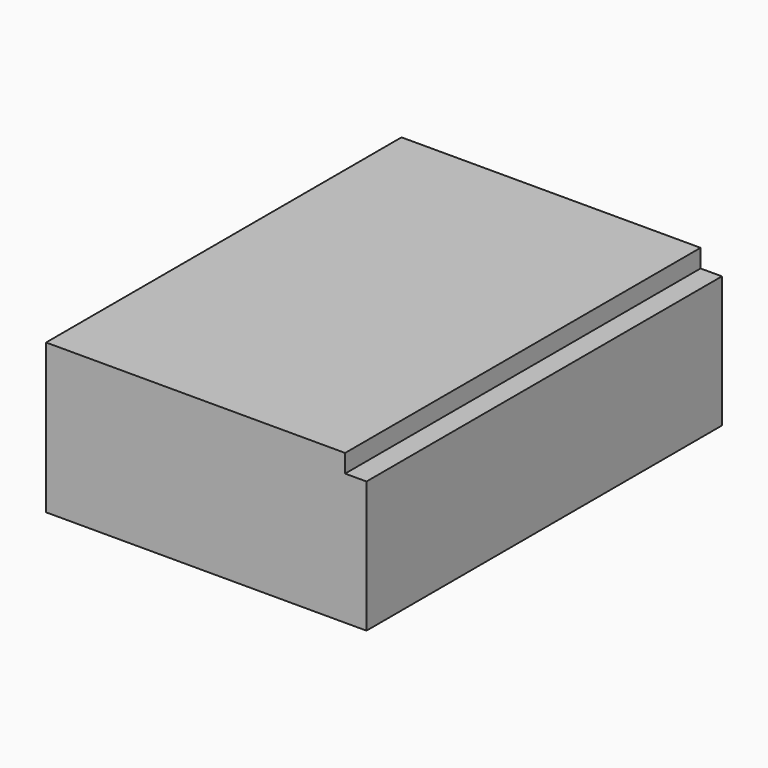
from build123d import *

# Parameters (mm, degrees)
F1_DEPTH  = 53.34
F2_DEPTH  = 25.4
F2_FACE_W = 88.9
F2_FACE_H = 132.08
F3_DEPTH  = 3.048


with BuildPart() as f1:
    # F0 (on Front) → F1 (new body, symmetric)
    with BuildSketch(Plane.XZ):
        Polygon((-47.625, -22.225), (47.625, -22.225), (47.625, 16.819645), (41.275, 16.819645), (41.275, 22.225), (-47.625, 22.225), align=None)
    extrude(amount=F1_DEPTH, both=True)

    # F1_face (on face) → F2 (join)
    with BuildSketch(Plane(origin=(-0.363302, -53.34, -0.159561), x_dir=(1, 0, 0), z_dir=(0, -1, 0))):
        Polygon((-47.261698, -22.065439), (47.988302, -22.065439), (47.988302, 16.979206), (41.638302, 16.979206), (41.638302, 22.384561), (-47.261698, 22.384561), align=None)
    extrude(amount=F2_DEPTH)

    # F2_face (on face) → F3 (join)
    with BuildSketch(Plane(origin=(-3.175, -12.7, 22.225), x_dir=(1, 0, 0), z_dir=(0, 0, 1))):
        Rectangle(F2_FACE_W, F2_FACE_H)
    extrude(amount=-F3_DEPTH)


solid = f1.part
